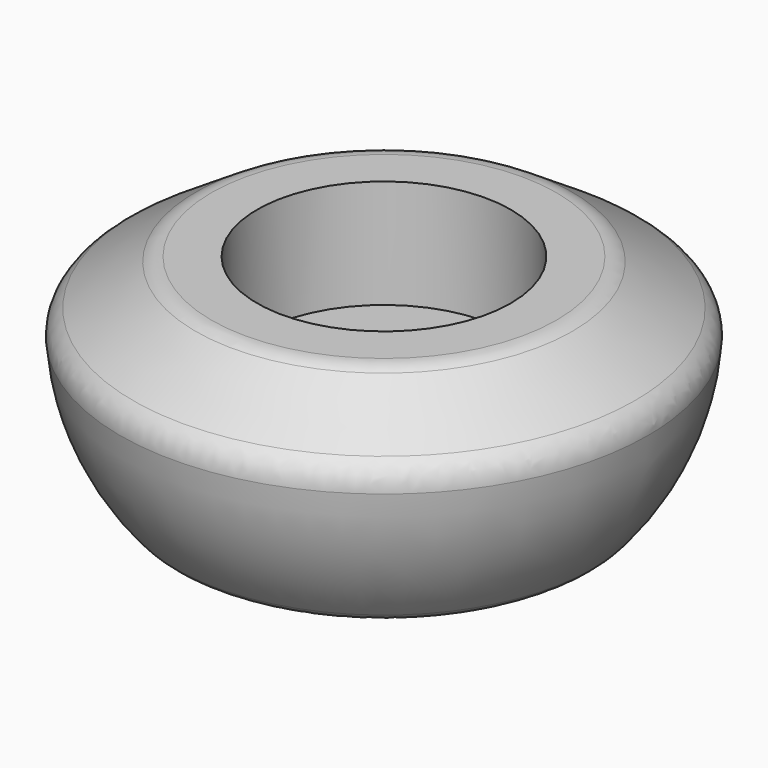
from build123d import *

# Parameters (mm, degrees)
F2_R     = 5.08
F3_R     = 22.225
F4_DEPTH = 19.05


with BuildPart() as f1:
    # F0 (on Front) → F1 (revolve)
    with BuildSketch(Plane.XZ):
        with BuildLine():
            Line((0, 38.1), (0, 0))
            Line((0, 0), (34.925, 0))
            ThreePointArc((34.925, 0), (43.391521, 13.186892), (46.355, 28.575))
            Line((46.355, 28.575), (31.75, 38.1))
            Line((31.75, 38.1), (0, 38.1))
        make_face()
    revolve(axis=Axis((0, 0, 9.574481), (0, 0, -1)))

    # F2
    f2_edges = [f1.edges().sort_by_distance(p)[0] for p in [
        (-46.355, 0, 28.575),
        (-31.75, 0, 38.1),
        (-34.925, 0, 0),
    ]]
    fillet(f2_edges, radius=F2_R)

    # F3 (on face) → F4 (cut)
    with BuildSketch(Plane.XY.offset(38.1)):
        Circle(F3_R)
    extrude(amount=-F4_DEPTH, mode=Mode.SUBTRACT)


solid = f1.part
